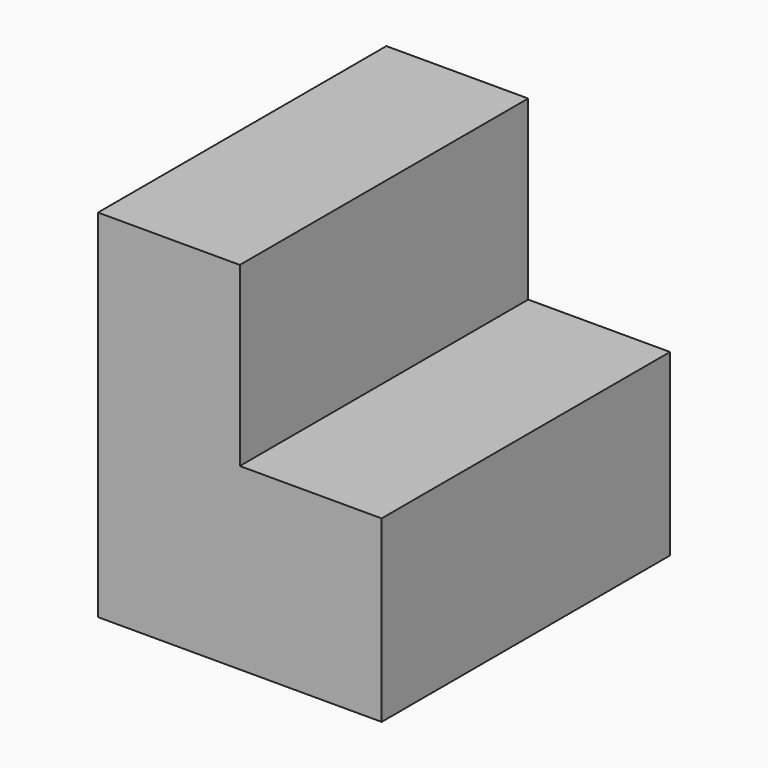
from build123d import *

# Parameters (mm, degrees)
F0_W     = 50.833423
F0_H     = 50.23184
F1_DEPTH = 20
F2_W     = 50.833423
F2_H     = 25.266316
F3_DEPTH = 40


with BuildPart() as f1:
    # F0 (on Right) → F1 (new body)
    with BuildSketch(Plane.YZ):
        with Locations((-25.416711, 25.11592)):
            Rectangle(F0_W, F0_H)
    extrude(amount=F1_DEPTH)

    # F2 (on Right) → F3 (join)
    with BuildSketch(Plane.YZ):
        with Locations((-25.416711, 12.633158)):
            Rectangle(F2_W, F2_H)
    extrude(amount=F3_DEPTH)


solid = f1.part
